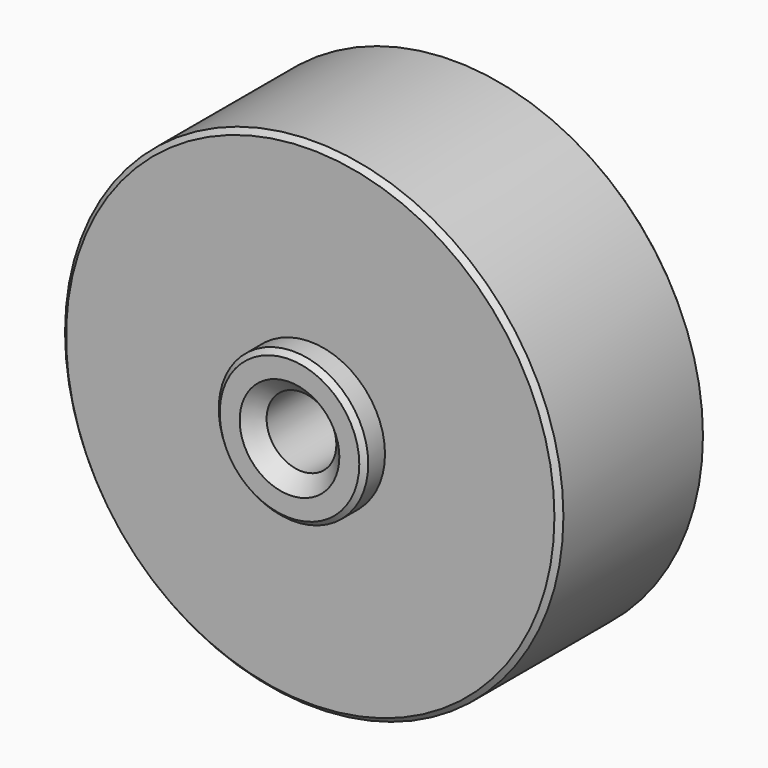
from build123d import *

# Parameters (mm, degrees)
F0_R     = 25
F0_R_2   = 3.5
F1_DEPTH = 18.5
F2_R     = 7.5
F2_R_2   = 3.5
F3_DEPTH = 2.6
F4_R     = 17.8
F4_R_2   = 15
F5_DEPTH = 3
F6_SIZE2 = 0.5
F6_SIZE  = 0.5
F7_SIZE  = 1.5


with BuildPart() as f1:
    # F0 (on Front) → F1 (new body)
    with BuildSketch(Plane.XZ):
        Circle(F0_R)
        Circle(F0_R_2, mode=Mode.SUBTRACT)
    extrude(amount=F1_DEPTH)

    # F2 (on face) → F3 (join)
    with BuildSketch(Plane.XZ.offset(18.5)):
        Circle(F2_R)
        Circle(F2_R_2, mode=Mode.SUBTRACT)
    extrude(amount=F3_DEPTH)

    # F4 (on face) → F5 (cut)
    with BuildSketch(Plane(origin=(0, 0, 0), x_dir=(-1, 0, 0), z_dir=(0, 1, 0))):
        Circle(F4_R)
        Circle(F4_R_2, mode=Mode.SUBTRACT)
    extrude(amount=-F5_DEPTH, mode=Mode.SUBTRACT)

    # F6
    f6_edges = [f1.edges().sort_by_distance(p)[0] for p in [
        (-25, 0, 0),
        (-25, -18.5, 0),
        (-3.5, 0, 0),
        (-7.5, -21.1, 0),
    ]]
    chamfer(f6_edges, length=F6_SIZE, length2=F6_SIZE2)

    # F7
    f7_edges = [f1.edges().sort_by_distance(p)[0] for p in [
        (-3.5, -21.1, 0),
    ]]
    chamfer(f7_edges, length=F7_SIZE)


solid = f1.part
